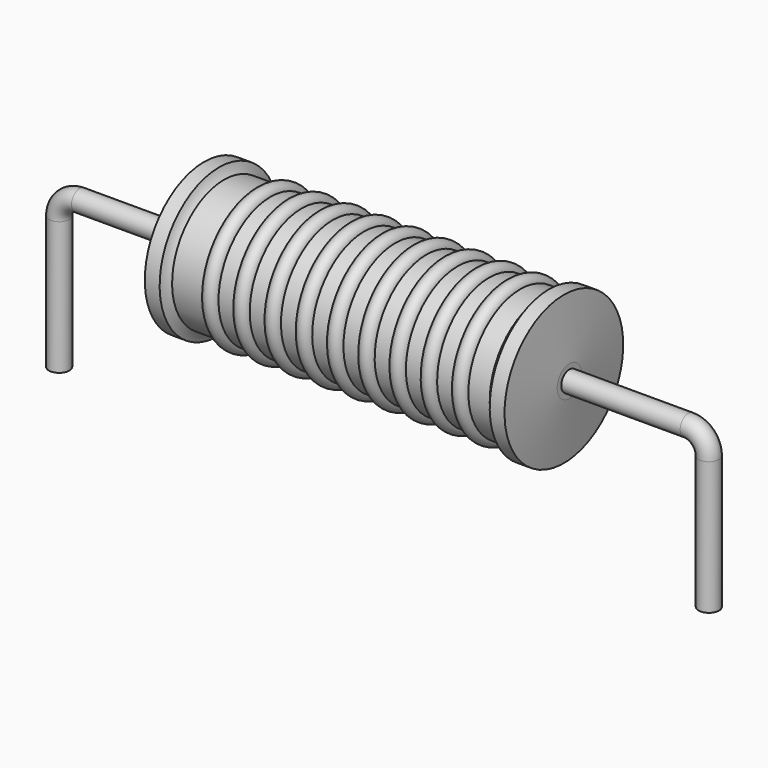
from build123d import *

# Parameters (mm, degrees)
SKETCH_R = 0.4


with BuildPart() as revolution:
    # Sketch002 → Revolution (revolve)
    with BuildSketch(Plane.XZ):
        with BuildLine():
            Line((5.6675, 5.9), (6.2475, 5.9))
            ThreePointArc((6.2475, 5.9), (6.326801, 5.70799), (6.4455, 5.5375))
            Line((6.4455, 5.5375), (18.8625, 5.5375))
            ThreePointArc((18.8625, 5.5375), (19.02618, 5.703806), (19.1525, 5.9))
            Line((19.1525, 5.9), (19.7325, 5.9))
            ThreePointArc((19.95, 3.6), (19.843254, 4.750189), (19.7325, 5.9))
            Line((19.95, 3), (19.95, 3.6))
            Line((5.45, 3), (19.95, 3))
            Line((5.45, 3), (5.45, 3.6))
            ThreePointArc((5.6675, 5.9), (5.556746, 4.750189), (5.45, 3.6))
        make_face()
    revolve(axis=Axis((5.45, 0, 3), (1, 0, 0)))


with BuildPart() as sweep_body:
    # Sweep: sweep along a path in Sketch001
    with BuildLine(Plane.XZ) as sweep_path:
        Line((0, -3), (0, 2.2))
        ThreePointArc((0, 2.2), (0.234311, 2.765682), (0.799991, 3))
        Line((0.799991, 3), (24.6, 3))
        ThreePointArc((24.6, 3), (25.165685, 2.765685), (25.4, 2.2))
        Line((25.4, 2.2), (25.4, -3))
    # Sketch → Sweep (sweep)
    with BuildSketch(Plane.XY.offset(-2)):
        Circle(SKETCH_R)
    sweep(path=sweep_path.line)


with BuildPart() as revolution001:
    # Sketch003 → Revolution001 (revolve)
    with BuildSketch(Plane.XZ):
        with BuildLine():
            ThreePointArc((8.266053, 5.4795), (7.960789, 5.784763), (7.655526, 5.4795))
            Line((7.045, 5.4795), (7.655526, 5.4795))
            Line((7.045, 5.4795), (7.045, 4.8995))
            Line((7.045, 4.8995), (18.645, 4.8995))
            Line((18.645, 4.8995), (18.645, 5.4795))
            Line((18.034474, 5.4795), (18.645, 5.4795))
            ThreePointArc((18.034474, 5.4795), (17.729211, 5.784763), (17.423947, 5.4795))
            Line((16.813421, 5.4795), (17.423947, 5.4795))
            ThreePointArc((16.813421, 5.4795), (16.508158, 5.784763), (16.202895, 5.4795))
            Line((15.592368, 5.4795), (16.202895, 5.4795))
            ThreePointArc((15.592368, 5.4795), (15.287105, 5.784763), (14.981842, 5.4795))
            Line((14.371316, 5.4795), (14.981842, 5.4795))
            ThreePointArc((14.371316, 5.4795), (14.066053, 5.784763), (13.760789, 5.4795))
            Line((13.150263, 5.4795), (13.760789, 5.4795))
            ThreePointArc((13.150263, 5.4795), (12.845, 5.784763), (12.539737, 5.4795))
            Line((11.929211, 5.4795), (12.539737, 5.4795))
            ThreePointArc((11.929211, 5.4795), (11.623947, 5.784763), (11.318684, 5.4795))
            Line((10.708158, 5.4795), (11.318684, 5.4795))
            ThreePointArc((10.708158, 5.4795), (10.402895, 5.784763), (10.097632, 5.4795))
            Line((9.487105, 5.4795), (10.097632, 5.4795))
            ThreePointArc((9.487105, 5.4795), (9.181842, 5.784763), (8.876579, 5.4795))
            Line((8.266053, 5.4795), (8.876579, 5.4795))
        make_face()
    revolve(axis=Axis((5.8125, 0, 3), (1, 0, 0)))


solid = Compound([revolution.part, sweep_body.part, revolution001.part])
